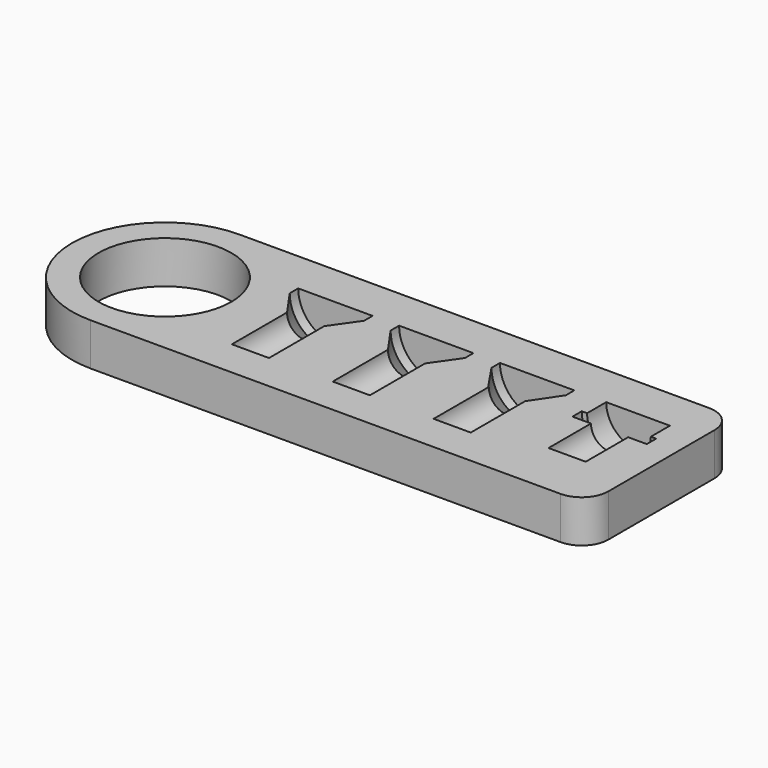
from build123d import *

# Parameters (mm, degrees)
F0_R     = 12.5
F1_DEPTH = 8


with BuildPart() as f1:
    # F0 (on Top) → F1 (new body)
    with BuildSketch(Plane.XY):
        with BuildLine():
            ThreePointArc((0, 17.5), (5.125631, 5.125631), (17.5, 0))
            Line((17.5, 0), (106, 0))
            ThreePointArc((106, 0), (109.535534, 1.464466), (111, 5))
            Line((111, 5), (111, 30))
            ThreePointArc((111, 30), (109.535534, 33.535534), (106, 35))
            Line((106, 35), (17.5, 35))
            ThreePointArc((17.5, 35), (5.125631, 29.874369), (0, 17.5))
        make_face()
        with Locations((17.5, 17.5)):
            Circle(F0_R, mode=Mode.SUBTRACT)
    extrude(amount=F1_DEPTH)

    # F2 (on face) → F3 (revolve, cut)
    with BuildSketch(Plane.XY.offset(8)):
        Polygon((105, 27), (99, 27), (99, 22.5), (99, 20.3), (99, 10.3), (102.5, 10.3), (102.5, 20.3), (106, 20.3), (106, 22.5), (105, 22.5), align=None)
    revolve(axis=Axis((99, 15.3, 8), (0, -1, 0)), mode=Mode.SUBTRACT)

    # F2 (on face) → F4 (revolve, cut)
    with BuildSketch(Plane.XY.offset(8)):
        Polygon((87, 27), (80, 27), (80, 25), (80, 20), (80, 7), (83.5, 7), (83.5, 20), (83.63197, 20), (87, 25), align=None)
    revolve(axis=Axis((80, 13.5, 8), (0, -1, 0)), mode=Mode.SUBTRACT)

    # F2 (on face) → F5 (revolve, cut)
    with BuildSketch(Plane.XY.offset(8)):
        Polygon((68, 27), (61, 27), (61, 25), (61, 20), (61, 7), (64.5, 7), (64.5, 20), (68, 25), align=None)
    revolve(axis=Axis((61, 13.5, 8), (0, -1, 0)), mode=Mode.SUBTRACT)

    # F2 (on face) → F6 (revolve, cut)
    with BuildSketch(Plane.XY.offset(8)):
        Polygon((49, 27), (42, 27), (42, 25), (42, 20), (42, 7), (45.5, 7), (45.5, 20), (49, 25), align=None)
    revolve(axis=Axis((42, 13.5, 8), (0, -1, 0)), mode=Mode.SUBTRACT)


solid = f1.part
